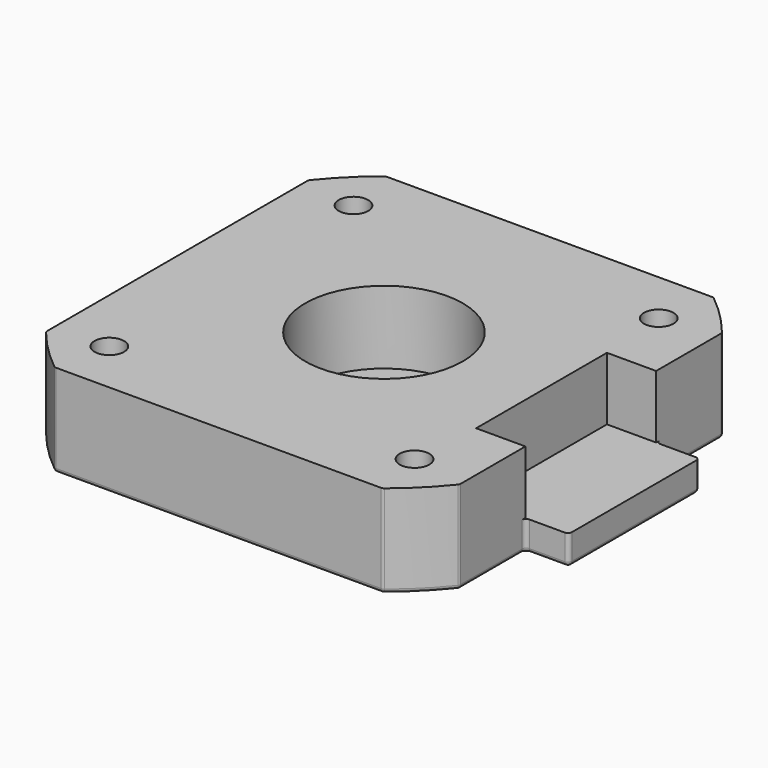
from build123d import *

# Parameters (mm, degrees)
SKETCH031_R     = 4.5
SKETCH031_R_2   = 1.5
PAD017_DEPTH    = 9.4
SKETCH033_R     = 3.2
POCKET011_DEPTH = 3
SKETCH034_R     = 8
POCKET001_DEPTH = 8
SKETCH004_W     = 16.6
SKETCH004_H     = 6.4
POCKET012_DEPTH = 10
FILLET002_R     = 0.4
FILLET003_R     = 0.4


with BuildPart() as part:
    # Sketch031 → Pad017 (new body)
    with BuildSketch(Plane.XY):
        with BuildLine():
            ThreePointArc((-16.650526, 21), (-18.950462, 18.950462), (-21, 16.650526))
            Line((-21, 16.650526), (-21, -16.650526))
            ThreePointArc((-21, -16.650526), (-18.950462, -18.950462), (-16.650526, -21))
            Line((-16.650526, -21), (16.650526, -21))
            ThreePointArc((16.650526, -21), (18.950462, -18.950462), (21, -16.650526))
            Line((21, -8.3), (21, -16.650526))
            Line((25.4, -8.3), (21, -8.3))
            Line((25.4, 8.3), (25.4, -8.3))
            Line((21, 8.3), (25.4, 8.3))
            Line((21, 16.650526), (21, 8.3))
            ThreePointArc((21, 16.650526), (18.950462, 18.950462), (16.650526, 21))
            Line((-16.650526, 21), (16.650526, 21))
        make_face()
        Circle(SKETCH031_R, mode=Mode.SUBTRACT)
        with Locations((-15.5, 15.5)):
            Circle(SKETCH031_R_2, mode=Mode.SUBTRACT)
        with Locations((15.5, 15.5)):
            Circle(SKETCH031_R_2, mode=Mode.SUBTRACT)
        with Locations((15.5, -15.5)):
            Circle(SKETCH031_R_2, mode=Mode.SUBTRACT)
        with Locations((-15.5, -15.5)):
            Circle(SKETCH031_R_2, mode=Mode.SUBTRACT)
    extrude(amount=PAD017_DEPTH)

    # Sketch033 → Pocket011 (cut)
    with BuildSketch(Plane.XY):
        with Locations((-15.5, 15.5)):
            Circle(SKETCH033_R)
        with Locations((15.5, 15.5)):
            Circle(SKETCH033_R)
        with Locations((15.5, -15.5)):
            Circle(SKETCH033_R)
        with Locations((-15.5, -15.5)):
            Circle(SKETCH033_R)
    extrude(amount=POCKET011_DEPTH, mode=Mode.SUBTRACT)

    # Sketch034 → Pocket001 (cut)
    with BuildSketch(Plane.XY.offset(10)):
        Circle(SKETCH034_R)
    extrude(amount=-POCKET001_DEPTH, mode=Mode.SUBTRACT)

    # Sketch004 → Pocket012 (cut)
    with BuildSketch(Plane.YZ.offset(26)):
        with Locations((0, 6.2)):
            Rectangle(SKETCH004_W, SKETCH004_H)
    extrude(amount=-POCKET012_DEPTH, mode=Mode.SUBTRACT)

    # Fillet002
    fillet002_edges = [part.edges().sort_by_distance(p)[0] for p in [
        (21, -8.3, 1.5),
        (21, 8.3, 1.5),
        (25.4, 8.3, 1.5),
        (25.4, -8.3, 1.5),
        (21, -16.650526, 4.7),
        (16.650526, -21, 4.7),
        (-16.650526, -21, 4.7),
        (-21, -16.650526, 4.7),
        (-21, 16.650526, 4.7),
        (-16.650526, 21, 4.7),
        (16.650526, 21, 4.7),
        (21, 16.650526, 4.7),
        (-4.5, 0, 0),
        (-18.7, -15.5, 0),
        (12.3, -15.5, 0),
        (12.3, 15.5, 0),
    ]]
    fillet(fillet002_edges, radius=FILLET002_R)

    # Fillet003
    fillet003_edges = [part.edges().sort_by_distance(p)[0] for p in [
        (18.950462, -18.950462, 0),
    ]]
    fillet(fillet003_edges, radius=FILLET003_R)


solid = part.part
